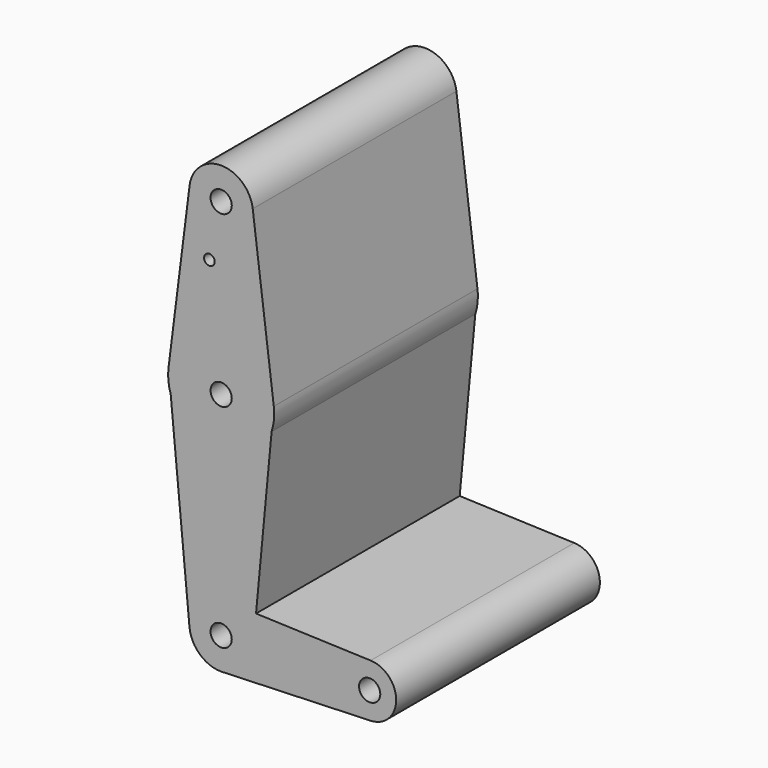
from build123d import *

# Parameters (mm, degrees)
F0_R     = 3.175
F0_R_2   = 1.5875
F1_DEPTH = 25.4
F2_DEPTH = 25.4
F3_DEPTH = 25.4


with BuildPart() as f1:
    # F0 (on Front) → F1 (new body)
    with BuildSketch(Plane.XZ):
        with BuildLine():
            ThreePointArc((0.34017864, 9.5189234419), (0.170116454, 9.5234807393), (0, 9.525))
            ThreePointArc((0, 9.525), (-7.044647886, 6.4108159514), (-9.4828222655, -0.8953808583))
            ThreePointArc((-9.4828222655, -0.8953808583), (-6.4108159514, -7.044647886), (0, -9.525))
            Line((0, -9.525), (0.6773435479, -9.500885786))
            ThreePointArc((0.6773435479, -9.500885786), (6.9705567315, -6.4912990883), (9.525, 0))
            ThreePointArc((9.525, 0), (6.8544083095, 6.6138273131), (0.34017864, 9.5189234419))
        make_face()
        with BuildLine():
            ThreePointArc((3.175, 0), (-2.2450640303, -2.2450640303), (0, 3.175))
            ThreePointArc((0, 3.175), (2.2450640303, 2.2450640303), (3.175, 0))
        make_face(mode=Mode.SUBTRACT)
        with BuildLine():
            ThreePointArc((-9.4828222655, -0.8953808583), (-7.044647886, 6.4108159514), (0, 9.525))
            Line((0, 9.525), (0, 9.5310804347))
            Line((0, 9.5310804347), (0, 47.625))
            ThreePointArc((0, 47.625), (-9.3346028611, 50.6594075516), (-15.1007031189, 58.6026139305))
            Line((-15.1007031189, 58.6026139305), (-9.4828222655, -0.8953808583))
        make_face()
        with BuildLine():
            Line((0, 47.625), (0, 9.5310804347))
            Line((0, 9.5310804347), (0.34017864, 9.5189234419))
            Line((0.34017864, 9.5189234419), (10.4321012974, 9.1582675492))
            Line((10.4321012974, 9.1582675492), (15.1007031189, 58.6026139305))
            ThreePointArc((15.1007031189, 58.6026139305), (9.3346028611, 50.6594075516), (0, 47.625))
        make_face()
        with BuildLine():
            Line((10.4321012974, 9.1582675492), (0.34017864, 9.5189234419))
            ThreePointArc((0.34017864, 9.5189234419), (6.8544083095, 6.6138273131), (9.525, 0))
            ThreePointArc((9.525, 0), (6.9705567315, -6.4912990883), (0.6773435479, -9.500885786))
            Line((0.6773435479, -9.500885786), (44.7324052746, -7.9324746146))
            ThreePointArc((44.7324052746, -7.9324746146), (36.5125000183, 0.0005387766), (44.7334821429, 7.9324362036))
            Line((44.7334821429, 7.9324362036), (10.4321012974, 9.1582675492))
        make_face()
        with BuildLine():
            ThreePointArc((-15.1007031189, 58.6026139305), (-9.3346028611, 50.6594075516), (0, 47.625))
            Line((0, 47.625), (0, 60.325))
            ThreePointArc((0, 60.325), (-3.175, 63.5), (0, 66.675))
            Line((0, 66.675), (0, 79.375))
            ThreePointArc((0, 79.375), (-10.5003255158, 75.40625), (-15.7504882737, 65.484375))
            Line((-15.7504882737, 65.484375), (-15.1007031189, 58.6026139305))
        make_face()
        with BuildLine():
            Line((0, 60.325), (0, 47.625))
            ThreePointArc((0, 47.625), (9.3346028611, 50.6594075516), (15.1007031189, 58.6026139305))
            Line((15.1007031189, 58.6026139305), (15.7504882737, 65.484375))
            ThreePointArc((15.7504882737, 65.484375), (10.5003255158, 75.40625), (0, 79.375))
            Line((0, 79.375), (0, 66.675))
            ThreePointArc((0, 66.675), (2.2450640303, 65.7450640303), (3.175, 63.5))
            ThreePointArc((3.175, 63.5), (2.2450640303, 61.2549359697), (0, 60.325))
        make_face()
        with BuildLine():
            Line((0.6773435479, -9.500885786), (0, -9.525))
            ThreePointArc((0, -9.525), (0.3388863295, -9.5189695375), (0.6773435479, -9.500885786))
        make_face()
        with BuildLine():
            ThreePointArc((-15.7504882737, 65.484375), (-15.8047037758, 62.0076985695), (-15.1007031189, 58.6026139305))
            Line((-15.1007031189, 58.6026139305), (-15.7504882737, 65.484375))
        make_face()
        with BuildLine():
            Line((15.7504882737, 65.484375), (15.1007031189, 58.6026139305))
            ThreePointArc((15.1007031189, 58.6026139305), (15.6802309775, 61.020890988), (15.875, 63.5))
            ThreePointArc((15.875, 63.5), (15.8438414904, 64.4941387366), (15.7504882737, 65.484375))
        make_face()
        with BuildLine():
            ThreePointArc((52.3875, 0), (50.1620069047, 5.5115227815), (44.7334821429, 7.9324362036))
            ThreePointArc((44.7334821429, 7.9324362036), (36.5125000183, 0.0005387766), (44.7324052746, -7.9324746146))
            ThreePointArc((44.7324052746, -7.9324746146), (50.1616327839, -5.5119104847), (52.3875, 0))
        make_face()
        with Locations((44.45, 0)):
            Circle(F0_R, mode=Mode.SUBTRACT)
        with BuildLine():
            Line((-9.4502929642, 115.490625), (-15.7504882737, 65.484375))
            ThreePointArc((-15.7504882737, 65.484375), (-10.5003255158, 75.40625), (0, 79.375))
            Line((0, 79.375), (0, 104.775))
            ThreePointArc((0, 104.775), (-7.14375, 107.9998046905), (-9.4502929642, 115.490625))
        make_face()
        with Locations((-3.5204379819, 97.8255793452)):
            Circle(F0_R_2, mode=Mode.SUBTRACT)
        with BuildLine():
            ThreePointArc((0, 79.375), (10.5003255158, 75.40625), (15.7504882737, 65.484375))
            Line((15.7504882737, 65.484375), (9.4502929642, 115.490625))
            ThreePointArc((9.4502929642, 115.490625), (9.5063048942, 114.896483242), (9.525, 114.3))
            ThreePointArc((9.525, 114.3), (6.7351920908, 107.5648079092), (0, 104.775))
            Line((0, 104.775), (0, 79.375))
        make_face()
        with BuildLine():
            ThreePointArc((9.4502929642, 115.490625), (0, 123.825), (-9.4502929642, 115.490625))
            ThreePointArc((-9.4502929642, 115.490625), (-7.14375, 107.9998046905), (0, 104.775))
            ThreePointArc((0, 104.775), (6.7351920908, 107.5648079092), (9.525, 114.3))
            ThreePointArc((9.525, 114.3), (9.5063048942, 114.896483242), (9.4502929642, 115.490625))
        make_face()
        with BuildLine():
            ThreePointArc((3.175, 114.3), (2.2450640303, 112.0549359697), (0, 111.125))
            ThreePointArc((0, 111.125), (-2.2450640303, 116.5450640303), (3.175, 114.3))
        make_face(mode=Mode.SUBTRACT)
    extrude(amount=F1_DEPTH)

    # F2 (add): a face of the model
    f2_faces = [f1.faces().sort_by_distance(p)[0] for p in [
        (5.1424381461, -25.4, 47.1936001946),
    ]]
    extrude(f2_faces, amount=F2_DEPTH)

    # F3 (add): a face of the model
    f3_faces = [f1.faces().sort_by_distance(p)[0] for p in [
        (5.1424381461, -50.8, 47.1936001946),
    ]]
    extrude(f3_faces, amount=F3_DEPTH)


solid = f1.part
